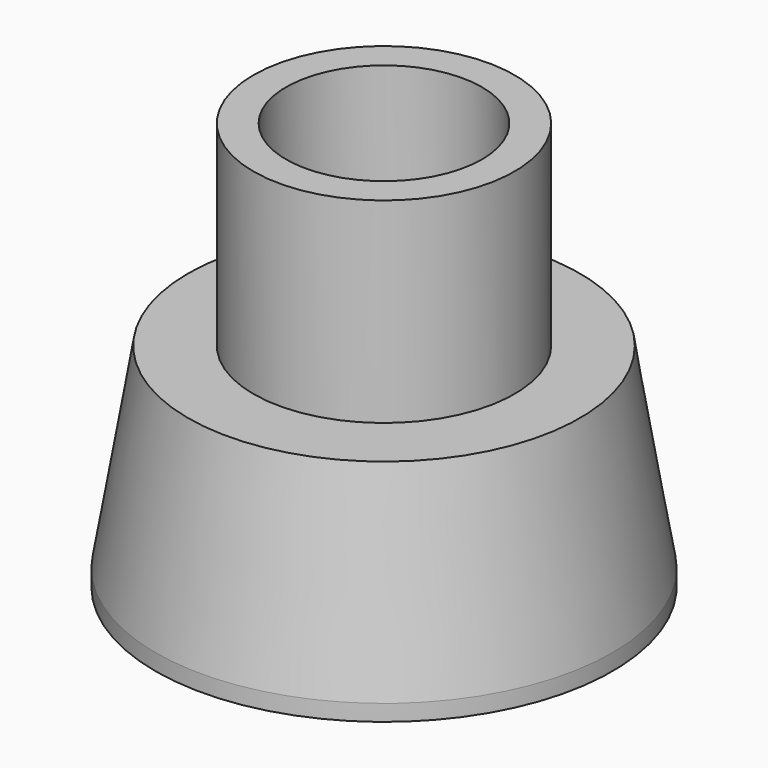
from build123d import *

# Parameters (mm, degrees)
F2_W     = 50.8
F2_H     = 31.75
F3_DEPTH = 44.451
F4_R     = 19.05
F5_DEPTH = 31.75


with BuildPart() as f1:
    # F0 (on Front) → F1 (revolve)
    with BuildSketch(Plane.XZ):
        Polygon((-38.1, 38.1), (-44.45, 0), (-44.45, -3.175), (-25.4, -3.175), (-25.4, 0), (-41.231205, 0), (-35.939538, 31.75), (-19.05, 31.75), (-19.05, 38.1), (-15.875, 38.1), (-15.875, 76.2), (-25.4, 76.2), (-25.4, 38.1), align=None)
    revolve(axis=Axis((0, 0, 192.978986), (0, 0, 1)))

    # F2 (on Front) → F3 (cut, through all)
    with BuildSketch(Plane.XZ):
        with Locations((0, 15.875)):
            Rectangle(F2_W, F2_H)
    extrude(amount=-F3_DEPTH, mode=Mode.SUBTRACT)

    # F4 (on face) → F5 (cut)
    with BuildSketch(Plane.XY.offset(76.2)):
        Circle(F4_R)
    extrude(amount=-F5_DEPTH, mode=Mode.SUBTRACT)


solid = f1.part
